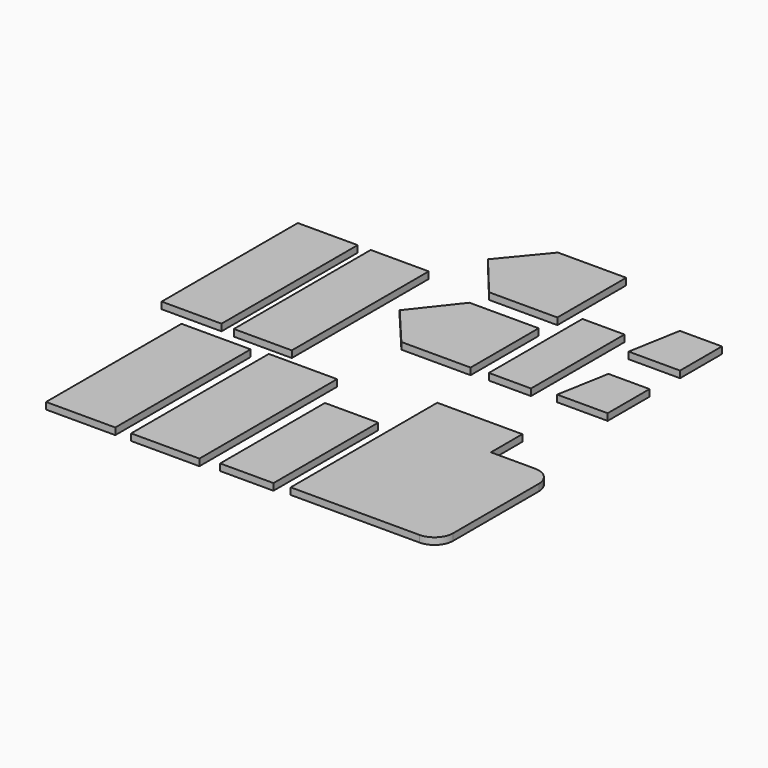
from build123d import *

# Parameters (mm, degrees)
F0_W      = 20.4869881272
F0_H      = 50.1100718975
F1_DEPTH  = 2
F0_W_2    = 20.2101375908
F0_H_2    = 50.9406253695
F2_W      = 17.7184790373
F2_H      = 50.386922434
F3_DEPTH  = 2
F2_W_2    = 17.1647779644
F2_H_2    = 50.6637729704
F4_W      = 20.4869909212
F4_H      = 25.1934616826
F5_DEPTH  = 2
F4_W_2    = 20.2101385221
F4_H_2    = 25.4703126848
F6_W      = 15.7805192284
F6_H      = 38.7591682374
F7_DEPTH  = 2
F8_W      = 12.4583039433
F8_H      = 34.6064004116
F9_DEPTH  = 2
F11_DEPTH = 2
F12_W     = 12.1814515442
F12_H     = 15.5036705546
F13_DEPTH = 2
F12_W_2   = 12.4583058059
F12_H_2   = 15.503667295


with BuildPart() as f1:
    # F0 (on Top) → F1 (new body)
    with BuildSketch(Plane.XY):
        with Locations((-51.4943264425, -46.0957288742)):
            Rectangle(F0_W, F0_H)
    extrude(amount=F1_DEPTH)


with BuildPart() as f1b:
    # F0 (on Top) → F1, piece 2 (new body)
    with BuildSketch(Plane.XY):
        with Locations((-26.439291425, -45.6804521382)):
            Rectangle(F0_W_2, F0_H_2)
    extrude(amount=F1_DEPTH)


with BuildPart() as f3:
    # F2 (on Top) → F3 (new body)
    with BuildSketch(Plane.XY):
        with Locations((-63.3989274502, 9.9666444585)):
            Rectangle(F2_W, F2_H)
    extrude(amount=F3_DEPTH)


with BuildPart() as f3b:
    # F2 (on Top) → F3, piece 2 (new body)
    with BuildSketch(Plane.XY):
        with Locations((-42.0813839883, 9.8282191902)):
            Rectangle(F2_W_2, F2_H_2)
    extrude(amount=F3_DEPTH)


with BuildPart() as f5:
    # F4 (on Top) → F5 (new body)
    with BuildSketch(Plane.XY):
        with Locations((-6.0907271691, 16.1957957316)):
            Rectangle(F4_W, F4_H)
        Polygon((-26.5777166933, 15.7805196941), (-16.3342226297, 3.5990648903), (-16.3342226297, 28.7925265729), align=None)
    extrude(amount=F5_DEPTH)


with BuildPart() as f5b:
    # F4 (on Top) → F5, piece 2 (new body)
    with BuildSketch(Plane.XY):
        with Locations((-5.9523009695, 48.4489630908)):
            Rectangle(F4_W_2, F4_H_2)
        Polygon((-26.5777166933, 48.4489612281), (-16.0573702306, 35.7138067484), (-16.0573702306, 61.1841194332), align=None)
    extrude(amount=F5_DEPTH)


with BuildPart() as f7:
    # F6 (on Top) → F7 (new body)
    with BuildSketch(Plane.XY):
        with Locations((-3.1837888528, -50.6637711078)):
            Rectangle(F6_W, F6_H)
    extrude(amount=F7_DEPTH)


with BuildPart() as f9:
    # F8 (on Top) → F9 (new body)
    with BuildSketch(Plane.XY):
        with Locations((15.3652420267, 21.4559680317)):
            Rectangle(F8_W, F8_H)
    extrude(amount=F9_DEPTH)


with BuildPart() as f11:
    # F10 (on Top) → F11 (new body)
    with BuildSketch(Plane.XY):
        Polygon((9.1360900551, -14.9632263929), (9.1360900551, -69.2128017545), (34.3295484781, -69.2128017545), (34.3295484781, -26.6008017545), (34.3295484781, -14.9632263929), align=None)
        with BuildLine():
            Line((34.3295484781, -26.6008017545), (34.3295484781, -69.2128017545))
            Line((34.3295484781, -69.2128017545), (47.286027726, -69.2128017545))
            ThreePointArc((47.286027726, -69.2128017545), (51.1966959215, -67.59294995), (52.816547726, -63.6822817545))
            Line((52.816547726, -63.6822817545), (52.816547726, -31.9850617545))
            ThreePointArc((52.816547726, -31.9850617545), (51.2395344837, -28.1778149968), (47.432287726, -26.6008017545))
            Line((47.432287726, -26.6008017545), (34.3295484781, -26.6008017545))
        make_face()
    extrude(amount=F11_DEPTH)


with BuildPart() as f13:
    # F12 (on Top) → F13 (new body)
    with BuildSketch(Plane.XY):
        with Locations((37.0980622247, 13.2888595108)):
            Rectangle(F12_W, F12_H)
        Polygon((28.2388255, 5.5370242335), (31.0073364526, 5.5370242335), (31.0073364526, 21.0406947881), align=None)
    extrude(amount=F13_DEPTH)


with BuildPart() as f13b:
    # F12 (on Top) → F13, piece 2 (new body)
    with BuildSketch(Plane.XY):
        with Locations((36.68278642, 40.4202789068)):
            Rectangle(F12_W_2, F12_H_2)
        Polygon((27.6851207018, 32.6684452593), (30.453633517, 32.6684452593), (30.453633517, 48.1721125543), align=None)
    extrude(amount=F13_DEPTH)


solid = Compound([f1.part, f1b.part, f3.part, f3b.part, f5.part, f5b.part, f7.part, f9.part, f11.part, f13.part, f13b.part])
